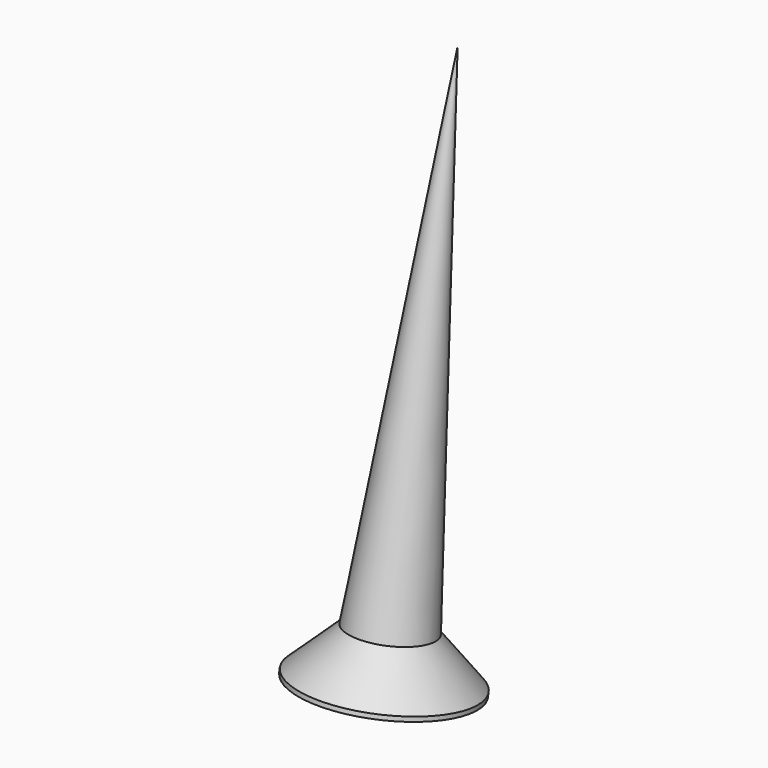
from build123d import *

# Parameters (mm, degrees)
POCKET003_DEPTH         = 0.2
POLARPATTERN_COUNT      = 2
POLARPATTERN_ANGLE      = 90
BODY006_ROLL_ANGLE      = -170
BODY006_PLACEMENT_ANGLE = 180


with BuildPart() as part:
    # Sketch020 → Revolution (revolve)
    with BuildSketch(Plane.XZ):
        Polygon((0, 0), (0, -12), (0.9, -1.05), (1.85, -0.1), (1.85, 0), align=None)
    revolve(axis=Axis((0, 0, 0), (0, 0, 1)))

    # Sketch021 → Pocket003 (cut, symmetric)
    with BuildSketch(Plane.XZ):
        Polygon((-1.15, 0), (0, -1.15), (1.15, 0), align=None)
    pocket003 = extrude(amount=POCKET003_DEPTH, both=True, mode=Mode.SUBTRACT)

    # PolarPattern: Pocket003 ×2 about axis
    polarpattern_axis = Axis((0, 0, 0), (0, 0, 1))
    for i in range(1, POLARPATTERN_COUNT):
        add(pocket003.rotate(polarpattern_axis, i * POLARPATTERN_ANGLE / (POLARPATTERN_COUNT - 1)), mode=Mode.SUBTRACT)


with BuildPart() as part_1:
    # Body006 roll: moved
    add(part.part.rotate(Axis((0, 0, 0), (1, 0, 0)), BODY006_ROLL_ANGLE))


with BuildPart() as part_2:
    # Body006 placement: moved
    add(part_1.part.moved(Location((24, -13, 1))).rotate(Axis((24, -13, 1), (0, 0, 1)), BODY006_PLACEMENT_ANGLE))


solid = part_2.part
